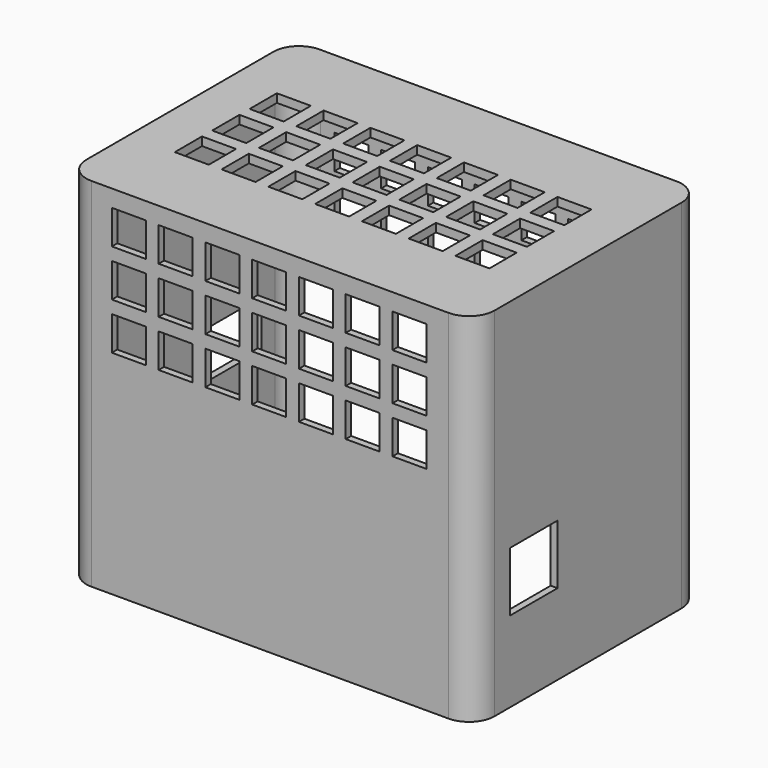
from build123d import *

# Parameters (mm, degrees)
BOX058_W                  = 14
BOX058_H                  = 19
BOX058_DEPTH              = 11
BOX057_W                  = 14
BOX057_H                  = 14
BOX057_DEPTH              = 14
BOX036_W                  = 8
BOX036_H                  = 89
BOX036_DEPTH              = 8
BOX037_W                  = 8
BOX037_H                  = 89
BOX037_DEPTH              = 8
BOX038_W                  = 8
BOX038_H                  = 89
BOX038_DEPTH              = 8
BOX039_W                  = 8
BOX039_H                  = 89
BOX039_DEPTH              = 8
BOX040_W                  = 8
BOX040_H                  = 89
BOX040_DEPTH              = 8
BOX041_W                  = 8
BOX041_H                  = 89
BOX041_DEPTH              = 8
BOX042_W                  = 8
BOX042_H                  = 89
BOX042_DEPTH              = 8
BOX043_W                  = 8
BOX043_H                  = 89
BOX043_DEPTH              = 8
BOX044_W                  = 8
BOX044_H                  = 89
BOX044_DEPTH              = 8
BOX045_W                  = 8
BOX045_H                  = 89
BOX045_DEPTH              = 8
BOX046_W                  = 8
BOX046_H                  = 89
BOX046_DEPTH              = 8
BOX047_W                  = 8
BOX047_H                  = 89
BOX047_DEPTH              = 8
BOX048_W                  = 8
BOX048_H                  = 89
BOX048_DEPTH              = 8
BOX049_W                  = 8
BOX049_H                  = 89
BOX049_DEPTH              = 8
BOX050_W                  = 8
BOX050_H                  = 89
BOX050_DEPTH              = 8
BOX051_W                  = 8
BOX051_H                  = 89
BOX051_DEPTH              = 8
BOX052_W                  = 8
BOX052_H                  = 89
BOX052_DEPTH              = 8
BOX053_W                  = 8
BOX053_H                  = 89
BOX053_DEPTH              = 8
BOX054_W                  = 8
BOX054_H                  = 89
BOX054_DEPTH              = 8
BOX055_W                  = 8
BOX055_H                  = 89
BOX055_DEPTH              = 8
BOX056_W                  = 8
BOX056_H                  = 89
BOX056_DEPTH              = 8
FUSION015_PLACEMENT_ANGLE = 90
BOX015_W                  = 8
BOX015_H                  = 89
BOX015_DEPTH              = 8
BOX016_W                  = 8
BOX016_H                  = 89
BOX016_DEPTH              = 8
BOX017_W                  = 8
BOX017_H                  = 89
BOX017_DEPTH              = 8
BOX018_W                  = 8
BOX018_H                  = 89
BOX018_DEPTH              = 8
BOX019_W                  = 8
BOX019_H                  = 89
BOX019_DEPTH              = 8
BOX020_W                  = 8
BOX020_H                  = 89
BOX020_DEPTH              = 8
BOX021_W                  = 8
BOX021_H                  = 89
BOX021_DEPTH              = 8
BOX022_W                  = 8
BOX022_H                  = 89
BOX022_DEPTH              = 8
BOX023_W                  = 8
BOX023_H                  = 89
BOX023_DEPTH              = 8
BOX024_W                  = 8
BOX024_H                  = 89
BOX024_DEPTH              = 8
BOX025_W                  = 8
BOX025_H                  = 89
BOX025_DEPTH              = 8
BOX026_W                  = 8
BOX026_H                  = 89
BOX026_DEPTH              = 8
BOX027_W                  = 8
BOX027_H                  = 89
BOX027_DEPTH              = 8
BOX028_W                  = 8
BOX028_H                  = 89
BOX028_DEPTH              = 8
BOX029_W                  = 8
BOX029_H                  = 89
BOX029_DEPTH              = 8
BOX030_W                  = 8
BOX030_H                  = 89
BOX030_DEPTH              = 8
BOX031_W                  = 8
BOX031_H                  = 89
BOX031_DEPTH              = 8
BOX032_W                  = 8
BOX032_H                  = 89
BOX032_DEPTH              = 8
BOX033_W                  = 8
BOX033_H                  = 89
BOX033_DEPTH              = 8
BOX034_W                  = 8
BOX034_H                  = 89
BOX034_DEPTH              = 8
BOX035_W                  = 8
BOX035_H                  = 89
BOX035_DEPTH              = 8
BOX_W                     = 91
BOX_H                     = 10
BOX_DEPTH                 = 35.5
FILLET005_R               = 5
BOX014_W                  = 93
BOX014_H                  = 64
BOX014_DEPTH              = 4.8
BOX012_W                  = 92.8
BOX012_H                  = 63.8
BOX012_DEPTH              = 82
FILLET003_R               = 6
BOX013_W                  = 96
BOX013_H                  = 67
BOX013_DEPTH              = 84
FILLET004_R               = 6


with BuildPart() as cube053:
    # Box058 → Box058 (new body)
    with BuildSketch(Plane(origin=(-7, 35, 25), x_dir=(1, 0, 0), z_dir=(0, 0, 1))):
        with Locations((7, 9.5)):
            Rectangle(BOX058_W, BOX058_H)
    extrude(amount=BOX058_DEPTH)


with BuildPart() as cube052:
    # Box057 → Box057 (new body)
    with BuildSketch(Plane(origin=(82, 9, 19), x_dir=(1, 0, 0), z_dir=(0, 0, 1))):
        with Locations((7, 7)):
            Rectangle(BOX057_W, BOX057_H)
    extrude(amount=BOX057_DEPTH)


with BuildPart() as cube031:
    # Box036 → Box036 (new body)
    with BuildSketch(Plane(origin=(5, -9, 72), x_dir=(1, 0, 0), z_dir=(0, 0, 1))):
        with Locations((4, 44.5)):
            Rectangle(BOX036_W, BOX036_H)
    extrude(amount=BOX036_DEPTH)


with BuildPart() as cube032:
    # Box037 → Box037 (new body)
    with BuildSketch(Plane(origin=(16, -9, 72), x_dir=(1, 0, 0), z_dir=(0, 0, 1))):
        with Locations((4, 44.5)):
            Rectangle(BOX037_W, BOX037_H)
    extrude(amount=BOX037_DEPTH)


with BuildPart() as cube033:
    # Box038 → Box038 (new body)
    with BuildSketch(Plane(origin=(27, -9, 72), x_dir=(1, 0, 0), z_dir=(0, 0, 1))):
        with Locations((4, 44.5)):
            Rectangle(BOX038_W, BOX038_H)
    extrude(amount=BOX038_DEPTH)


with BuildPart() as cube034:
    # Box039 → Box039 (new body)
    with BuildSketch(Plane(origin=(38, -9, 72), x_dir=(1, 0, 0), z_dir=(0, 0, 1))):
        with Locations((4, 44.5)):
            Rectangle(BOX039_W, BOX039_H)
    extrude(amount=BOX039_DEPTH)


with BuildPart() as cube035:
    # Box040 → Box040 (new body)
    with BuildSketch(Plane(origin=(49, -9, 72), x_dir=(1, 0, 0), z_dir=(0, 0, 1))):
        with Locations((4, 44.5)):
            Rectangle(BOX040_W, BOX040_H)
    extrude(amount=BOX040_DEPTH)


with BuildPart() as cube036:
    # Box041 → Box041 (new body)
    with BuildSketch(Plane(origin=(60, -9, 72), x_dir=(1, 0, 0), z_dir=(0, 0, 1))):
        with Locations((4, 44.5)):
            Rectangle(BOX041_W, BOX041_H)
    extrude(amount=BOX041_DEPTH)


with BuildPart() as fusion012:
    # Box042 → Box042 (new body)
    with BuildSketch(Plane(origin=(71, -9, 72), x_dir=(1, 0, 0), z_dir=(0, 0, 1))):
        with Locations((4, 44.5)):
            Rectangle(BOX042_W, BOX042_H)
    extrude(amount=BOX042_DEPTH)

    # Fusion012: union Cube031, Cube032, Cube033, Cube034, Cube035, Cube036
    add(cube031.part)
    add(cube032.part)
    add(cube033.part)
    add(cube034.part)
    add(cube035.part)
    add(cube036.part)


with BuildPart() as fusion012_1:
    # Fusion012 placement: moved
    add(fusion012.part.moved(Location((1.8, 0, 0))))


with BuildPart() as cube038:
    # Box043 → Box043 (new body)
    with BuildSketch(Plane(origin=(5, -9, 72), x_dir=(1, 0, 0), z_dir=(0, 0, 1))):
        with Locations((4, 44.5)):
            Rectangle(BOX043_W, BOX043_H)
    extrude(amount=BOX043_DEPTH)


with BuildPart() as cube039:
    # Box044 → Box044 (new body)
    with BuildSketch(Plane(origin=(16, -9, 72), x_dir=(1, 0, 0), z_dir=(0, 0, 1))):
        with Locations((4, 44.5)):
            Rectangle(BOX044_W, BOX044_H)
    extrude(amount=BOX044_DEPTH)


with BuildPart() as cube040:
    # Box045 → Box045 (new body)
    with BuildSketch(Plane(origin=(27, -9, 72), x_dir=(1, 0, 0), z_dir=(0, 0, 1))):
        with Locations((4, 44.5)):
            Rectangle(BOX045_W, BOX045_H)
    extrude(amount=BOX045_DEPTH)


with BuildPart() as cube041:
    # Box046 → Box046 (new body)
    with BuildSketch(Plane(origin=(38, -9, 72), x_dir=(1, 0, 0), z_dir=(0, 0, 1))):
        with Locations((4, 44.5)):
            Rectangle(BOX046_W, BOX046_H)
    extrude(amount=BOX046_DEPTH)


with BuildPart() as cube042:
    # Box047 → Box047 (new body)
    with BuildSketch(Plane(origin=(49, -9, 72), x_dir=(1, 0, 0), z_dir=(0, 0, 1))):
        with Locations((4, 44.5)):
            Rectangle(BOX047_W, BOX047_H)
    extrude(amount=BOX047_DEPTH)


with BuildPart() as cube043:
    # Box048 → Box048 (new body)
    with BuildSketch(Plane(origin=(60, -9, 72), x_dir=(1, 0, 0), z_dir=(0, 0, 1))):
        with Locations((4, 44.5)):
            Rectangle(BOX048_W, BOX048_H)
    extrude(amount=BOX048_DEPTH)


with BuildPart() as fusion013:
    # Box049 → Box049 (new body)
    with BuildSketch(Plane(origin=(71, -9, 72), x_dir=(1, 0, 0), z_dir=(0, 0, 1))):
        with Locations((4, 44.5)):
            Rectangle(BOX049_W, BOX049_H)
    extrude(amount=BOX049_DEPTH)

    # Fusion013: union Cube038, Cube039, Cube040, Cube041, Cube042, Cube043
    add(cube038.part)
    add(cube039.part)
    add(cube040.part)
    add(cube041.part)
    add(cube042.part)
    add(cube043.part)


with BuildPart() as fusion013_1:
    # Fusion013 placement: moved
    add(fusion013.part.moved(Location((1.8, 0, -11))))


with BuildPart() as cube045:
    # Box050 → Box050 (new body)
    with BuildSketch(Plane(origin=(5, -9, 72), x_dir=(1, 0, 0), z_dir=(0, 0, 1))):
        with Locations((4, 44.5)):
            Rectangle(BOX050_W, BOX050_H)
    extrude(amount=BOX050_DEPTH)


with BuildPart() as cube046:
    # Box051 → Box051 (new body)
    with BuildSketch(Plane(origin=(16, -9, 72), x_dir=(1, 0, 0), z_dir=(0, 0, 1))):
        with Locations((4, 44.5)):
            Rectangle(BOX051_W, BOX051_H)
    extrude(amount=BOX051_DEPTH)


with BuildPart() as cube047:
    # Box052 → Box052 (new body)
    with BuildSketch(Plane(origin=(27, -9, 72), x_dir=(1, 0, 0), z_dir=(0, 0, 1))):
        with Locations((4, 44.5)):
            Rectangle(BOX052_W, BOX052_H)
    extrude(amount=BOX052_DEPTH)


with BuildPart() as cube048:
    # Box053 → Box053 (new body)
    with BuildSketch(Plane(origin=(38, -9, 72), x_dir=(1, 0, 0), z_dir=(0, 0, 1))):
        with Locations((4, 44.5)):
            Rectangle(BOX053_W, BOX053_H)
    extrude(amount=BOX053_DEPTH)


with BuildPart() as cube049:
    # Box054 → Box054 (new body)
    with BuildSketch(Plane(origin=(49, -9, 72), x_dir=(1, 0, 0), z_dir=(0, 0, 1))):
        with Locations((4, 44.5)):
            Rectangle(BOX054_W, BOX054_H)
    extrude(amount=BOX054_DEPTH)


with BuildPart() as cube050:
    # Box055 → Box055 (new body)
    with BuildSketch(Plane(origin=(60, -9, 72), x_dir=(1, 0, 0), z_dir=(0, 0, 1))):
        with Locations((4, 44.5)):
            Rectangle(BOX055_W, BOX055_H)
    extrude(amount=BOX055_DEPTH)


with BuildPart() as fusion015:
    # Box056 → Box056 (new body)
    with BuildSketch(Plane(origin=(71, -9, 72), x_dir=(1, 0, 0), z_dir=(0, 0, 1))):
        with Locations((4, 44.5)):
            Rectangle(BOX056_W, BOX056_H)
    extrude(amount=BOX056_DEPTH)

    # Fusion014: union Cube045, Cube046, Cube047, Cube048, Cube049, Cube050
    add(cube045.part)
    add(cube046.part)
    add(cube047.part)
    add(cube048.part)
    add(cube049.part)
    add(cube050.part)


with BuildPart() as fusion015_1:
    # Fusion014 placement: moved
    add(fusion015.part.moved(Location((1.8, 0, -22))))

    # Fusion015: union Fusion012, Fusion013
    add(fusion012_1.part)
    add(fusion013_1.part)


with BuildPart() as fusion015_2:
    # Fusion015 placement: moved
    add(fusion015_1.part.moved(Location((0, 97, 20))).rotate(Axis((0, 97, 20), (1, 0, 0)), FUSION015_PLACEMENT_ANGLE))


with BuildPart() as cube010:
    # Box015 → Box015 (new body)
    with BuildSketch(Plane(origin=(5, -9, 72), x_dir=(1, 0, 0), z_dir=(0, 0, 1))):
        with Locations((4, 44.5)):
            Rectangle(BOX015_W, BOX015_H)
    extrude(amount=BOX015_DEPTH)


with BuildPart() as cube011:
    # Box016 → Box016 (new body)
    with BuildSketch(Plane(origin=(16, -9, 72), x_dir=(1, 0, 0), z_dir=(0, 0, 1))):
        with Locations((4, 44.5)):
            Rectangle(BOX016_W, BOX016_H)
    extrude(amount=BOX016_DEPTH)


with BuildPart() as cube012:
    # Box017 → Box017 (new body)
    with BuildSketch(Plane(origin=(27, -9, 72), x_dir=(1, 0, 0), z_dir=(0, 0, 1))):
        with Locations((4, 44.5)):
            Rectangle(BOX017_W, BOX017_H)
    extrude(amount=BOX017_DEPTH)


with BuildPart() as cube013:
    # Box018 → Box018 (new body)
    with BuildSketch(Plane(origin=(38, -9, 72), x_dir=(1, 0, 0), z_dir=(0, 0, 1))):
        with Locations((4, 44.5)):
            Rectangle(BOX018_W, BOX018_H)
    extrude(amount=BOX018_DEPTH)


with BuildPart() as cube014:
    # Box019 → Box019 (new body)
    with BuildSketch(Plane(origin=(49, -9, 72), x_dir=(1, 0, 0), z_dir=(0, 0, 1))):
        with Locations((4, 44.5)):
            Rectangle(BOX019_W, BOX019_H)
    extrude(amount=BOX019_DEPTH)


with BuildPart() as cube015:
    # Box020 → Box020 (new body)
    with BuildSketch(Plane(origin=(60, -9, 72), x_dir=(1, 0, 0), z_dir=(0, 0, 1))):
        with Locations((4, 44.5)):
            Rectangle(BOX020_W, BOX020_H)
    extrude(amount=BOX020_DEPTH)


with BuildPart() as fusion008:
    # Box021 → Box021 (new body)
    with BuildSketch(Plane(origin=(71, -9, 72), x_dir=(1, 0, 0), z_dir=(0, 0, 1))):
        with Locations((4, 44.5)):
            Rectangle(BOX021_W, BOX021_H)
    extrude(amount=BOX021_DEPTH)

    # Fusion008: union Cube010, Cube011, Cube012, Cube013, Cube014, Cube015
    add(cube010.part)
    add(cube011.part)
    add(cube012.part)
    add(cube013.part)
    add(cube014.part)
    add(cube015.part)


with BuildPart() as fusion008_1:
    # Fusion008 placement: moved
    add(fusion008.part.moved(Location((1.8, 0, 0))))


with BuildPart() as cube017:
    # Box022 → Box022 (new body)
    with BuildSketch(Plane(origin=(5, -9, 72), x_dir=(1, 0, 0), z_dir=(0, 0, 1))):
        with Locations((4, 44.5)):
            Rectangle(BOX022_W, BOX022_H)
    extrude(amount=BOX022_DEPTH)


with BuildPart() as cube018:
    # Box023 → Box023 (new body)
    with BuildSketch(Plane(origin=(16, -9, 72), x_dir=(1, 0, 0), z_dir=(0, 0, 1))):
        with Locations((4, 44.5)):
            Rectangle(BOX023_W, BOX023_H)
    extrude(amount=BOX023_DEPTH)


with BuildPart() as cube019:
    # Box024 → Box024 (new body)
    with BuildSketch(Plane(origin=(27, -9, 72), x_dir=(1, 0, 0), z_dir=(0, 0, 1))):
        with Locations((4, 44.5)):
            Rectangle(BOX024_W, BOX024_H)
    extrude(amount=BOX024_DEPTH)


with BuildPart() as cube020:
    # Box025 → Box025 (new body)
    with BuildSketch(Plane(origin=(38, -9, 72), x_dir=(1, 0, 0), z_dir=(0, 0, 1))):
        with Locations((4, 44.5)):
            Rectangle(BOX025_W, BOX025_H)
    extrude(amount=BOX025_DEPTH)


with BuildPart() as cube021:
    # Box026 → Box026 (new body)
    with BuildSketch(Plane(origin=(49, -9, 72), x_dir=(1, 0, 0), z_dir=(0, 0, 1))):
        with Locations((4, 44.5)):
            Rectangle(BOX026_W, BOX026_H)
    extrude(amount=BOX026_DEPTH)


with BuildPart() as cube022:
    # Box027 → Box027 (new body)
    with BuildSketch(Plane(origin=(60, -9, 72), x_dir=(1, 0, 0), z_dir=(0, 0, 1))):
        with Locations((4, 44.5)):
            Rectangle(BOX027_W, BOX027_H)
    extrude(amount=BOX027_DEPTH)


with BuildPart() as fusion009:
    # Box028 → Box028 (new body)
    with BuildSketch(Plane(origin=(71, -9, 72), x_dir=(1, 0, 0), z_dir=(0, 0, 1))):
        with Locations((4, 44.5)):
            Rectangle(BOX028_W, BOX028_H)
    extrude(amount=BOX028_DEPTH)

    # Fusion009: union Cube017, Cube018, Cube019, Cube020, Cube021, Cube022
    add(cube017.part)
    add(cube018.part)
    add(cube019.part)
    add(cube020.part)
    add(cube021.part)
    add(cube022.part)


with BuildPart() as fusion009_1:
    # Fusion009 placement: moved
    add(fusion009.part.moved(Location((1.8, 0, -11))))


with BuildPart() as cube024:
    # Box029 → Box029 (new body)
    with BuildSketch(Plane(origin=(5, -9, 72), x_dir=(1, 0, 0), z_dir=(0, 0, 1))):
        with Locations((4, 44.5)):
            Rectangle(BOX029_W, BOX029_H)
    extrude(amount=BOX029_DEPTH)


with BuildPart() as cube025:
    # Box030 → Box030 (new body)
    with BuildSketch(Plane(origin=(16, -9, 72), x_dir=(1, 0, 0), z_dir=(0, 0, 1))):
        with Locations((4, 44.5)):
            Rectangle(BOX030_W, BOX030_H)
    extrude(amount=BOX030_DEPTH)


with BuildPart() as cube026:
    # Box031 → Box031 (new body)
    with BuildSketch(Plane(origin=(27, -9, 72), x_dir=(1, 0, 0), z_dir=(0, 0, 1))):
        with Locations((4, 44.5)):
            Rectangle(BOX031_W, BOX031_H)
    extrude(amount=BOX031_DEPTH)


with BuildPart() as cube027:
    # Box032 → Box032 (new body)
    with BuildSketch(Plane(origin=(38, -9, 72), x_dir=(1, 0, 0), z_dir=(0, 0, 1))):
        with Locations((4, 44.5)):
            Rectangle(BOX032_W, BOX032_H)
    extrude(amount=BOX032_DEPTH)


with BuildPart() as cube028:
    # Box033 → Box033 (new body)
    with BuildSketch(Plane(origin=(49, -9, 72), x_dir=(1, 0, 0), z_dir=(0, 0, 1))):
        with Locations((4, 44.5)):
            Rectangle(BOX033_W, BOX033_H)
    extrude(amount=BOX033_DEPTH)


with BuildPart() as cube029:
    # Box034 → Box034 (new body)
    with BuildSketch(Plane(origin=(60, -9, 72), x_dir=(1, 0, 0), z_dir=(0, 0, 1))):
        with Locations((4, 44.5)):
            Rectangle(BOX034_W, BOX034_H)
    extrude(amount=BOX034_DEPTH)


with BuildPart() as fusion016:
    # Box035 → Box035 (new body)
    with BuildSketch(Plane(origin=(71, -9, 72), x_dir=(1, 0, 0), z_dir=(0, 0, 1))):
        with Locations((4, 44.5)):
            Rectangle(BOX035_W, BOX035_H)
    extrude(amount=BOX035_DEPTH)

    # Fusion010: union Cube024, Cube025, Cube026, Cube027, Cube028, Cube029
    add(cube024.part)
    add(cube025.part)
    add(cube026.part)
    add(cube027.part)
    add(cube028.part)
    add(cube029.part)


with BuildPart() as fusion016_1:
    # Fusion010 placement: moved
    add(fusion016.part.moved(Location((1.8, 0, -22))))

    # Fusion011: union Fusion008, Fusion009
    add(fusion008_1.part)
    add(fusion009_1.part)

    # Fusion016: union Fusion015
    add(fusion015_2.part)


with BuildPart() as fillet005:
    # Box → Box (new body)
    with BuildSketch(Plane(origin=(-1.5, 53, 4.6), x_dir=(1, 0, 0), z_dir=(0, 0, 1))):
        with Locations((45.5, 5)):
            Rectangle(BOX_W, BOX_H)
    extrude(amount=BOX_DEPTH)

    # Fillet005
    fillet005_edges = [fillet005.edges().sort_by_distance(p)[0] for p in [
        (-1.5, 58, 40.1),
        (89.5, 58, 40.1),
    ]]
    fillet(fillet005_edges, radius=FILLET005_R)


with BuildPart() as fillet005_1:
    # Fillet005 placement: moved
    add(fillet005.part.moved(Location((0, 5, 0))))


with BuildPart() as fusion007:
    # Box014 → Box014 (new body)
    with BuildSketch(Plane(origin=(-2.5, 44, 0), x_dir=(1, 0, 0), z_dir=(0, 0, 1))):
        with Locations((46.5, 32)):
            Rectangle(BOX014_W, BOX014_H)
    extrude(amount=BOX014_DEPTH)

    # Fusion007: union Fillet005
    add(fillet005_1.part)


with BuildPart() as fillet003:
    # Box012 → Box012 (new body)
    with BuildSketch(Plane(origin=(-2, -1, 0), x_dir=(1, 0, 0), z_dir=(0, 0, 1))):
        with Locations((46.4, 31.9)):
            Rectangle(BOX012_W, BOX012_H)
    extrude(amount=BOX012_DEPTH)

    # Fillet003
    fillet003_edges = [fillet003.edges().sort_by_distance(p)[0] for p in [
        (-2, -1, 41),
        (-2, 62.8, 41),
        (90.8, -1, 41),
        (90.8, 62.8, 41),
    ]]
    fillet(fillet003_edges, radius=FILLET003_R)


with BuildPart() as fillet003_1:
    # Fillet003 placement: moved
    add(fillet003.part.moved(Location((1.6, 1.6, 26))))


with BuildPart() as outside_frame:
    # Box013 → Box013 (new body)
    with BuildSketch(Plane(origin=(-2, -1, 0), x_dir=(1, 0, 0), z_dir=(0, 0, 1))):
        with Locations((48, 33.5)):
            Rectangle(BOX013_W, BOX013_H)
    extrude(amount=BOX013_DEPTH)

    # Fillet004
    fillet004_edges = [outside_frame.edges().sort_by_distance(p)[0] for p in [
        (-2, -1, 42),
        (-2, 66, 42),
        (94, -1, 42),
        (94, 66, 42),
    ]]
    fillet(fillet004_edges, radius=FILLET004_R)


with BuildPart() as outside_frame_1:
    # Fillet004 placement: moved
    add(outside_frame.part.moved(Location((0, 0, 26))))

    # Cut009002001002: cut Fillet003
    add(fillet003_1.part, mode=Mode.SUBTRACT)


with BuildPart() as outside_frame_2:
    # Cut009002001002 placement: moved
    add(outside_frame_1.part.moved(Location((-2, -0.5, -26))))

    # Cut009002001003: cut Fusion007
    add(fusion007.part, mode=Mode.SUBTRACT)

    # Cut009002001004: cut Fusion016
    add(fusion016_1.part, mode=Mode.SUBTRACT)

    # Cut009002001005: cut Cube052
    add(cube052.part, mode=Mode.SUBTRACT)

    # Cut009002001006: cut Cube053
    add(cube053.part, mode=Mode.SUBTRACT)


solid = outside_frame_2.part
